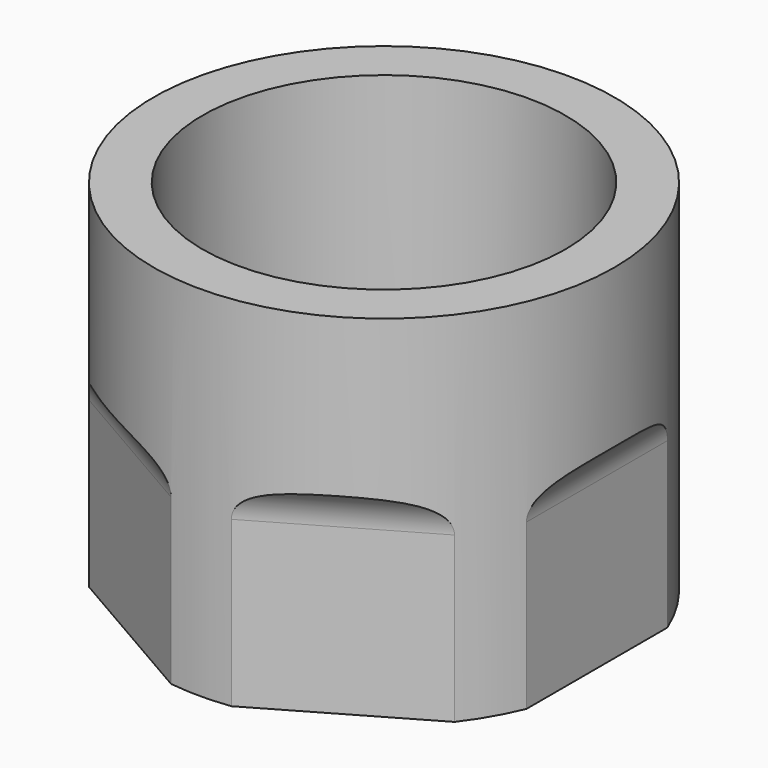
from build123d import *

# Parameters (mm, degrees)
POCKET003_DEPTH    = 10
POLARPATTERN_COUNT = 6


with BuildPart() as part:
    # Sketch012 → Revolution001 (revolve)
    with BuildSketch(Plane.XZ):
        Polygon((4, 0), (4, 2.040516), (7.084628, 2.040516), (7.084628, 14), (9, 14), (9, 0), align=None)
    revolve(axis=Axis((0, 0, 0), (0, 0, 1)))

    # Sketch013 → Pocket003 (cut, symmetric)
    with BuildSketch(Plane.XZ):
        with BuildLine():
            ThreePointArc((11.928039, 6.425307), (10.121972, 8.231374), (8.315905, 6.425307))
            Line((8.315905, 6.425307), (8.315905, -3.082439))
            ThreePointArc((8.315905, -3.082439), (10.121972, -4.888506), (11.928039, -3.082439))
            Line((11.928039, 6.425307), (11.928039, -3.082439))
        make_face()
    pocket003 = extrude(amount=POCKET003_DEPTH, both=True, mode=Mode.SUBTRACT)

    # PolarPattern: Pocket003 ×6 about axis
    polarpattern_axis = Axis((0, 0, 0), (0, 0, 1))
    for i in range(1, POLARPATTERN_COUNT):
        add(pocket003.rotate(polarpattern_axis, i * 360 / POLARPATTERN_COUNT), mode=Mode.SUBTRACT)


with BuildPart() as part_1:
    # Body006 placement: moved
    add(part.part.moved(Location((0, 0, -34))))


solid = part_1.part
